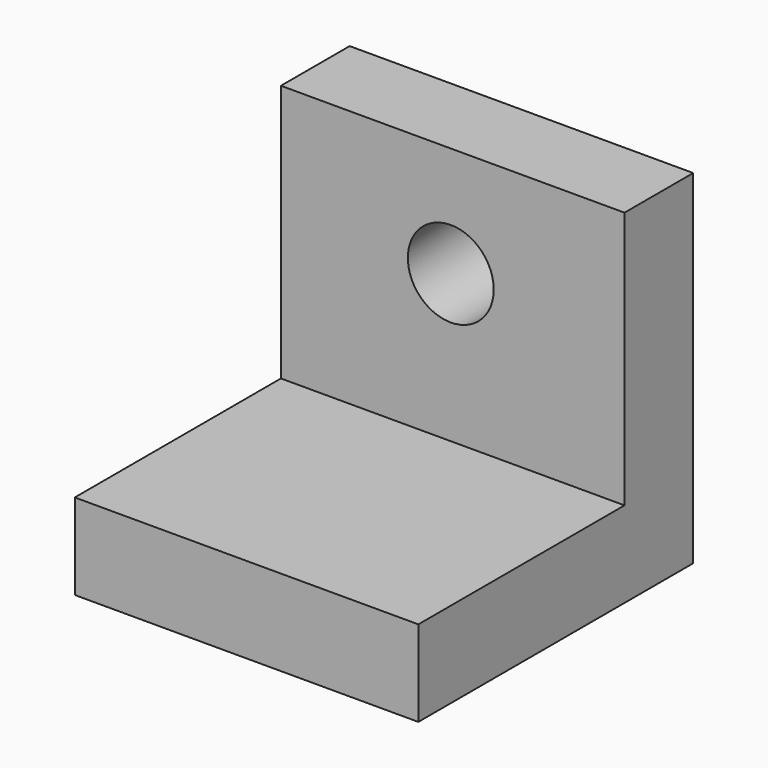
from build123d import *

# Parameters (mm, degrees)
F0_W     = 38.1
F0_H     = 12.7
F1_DEPTH = 50.8
F2_R     = 6.35
F3_DEPTH = 25.4


with BuildPart() as f1:
    # F0 (on Right) → F1 (new body)
    with BuildSketch(Plane.YZ):
        Polygon((12.7, 13.411356), (0, 13.411356), (0, -24.688644), (0, -37.388644), (12.7, -37.388644), align=None)
        with Locations((-19.05, -31.038644)):
            Rectangle(F0_W, F0_H)
    extrude(amount=F1_DEPTH)

    # F2 (on Front) → F3 (cut)
    with BuildSketch(Plane.XZ):
        with Locations((25.114248, -2.88925)):
            Circle(F2_R)
    extrude(amount=-F3_DEPTH, mode=Mode.SUBTRACT)


solid = f1.part
